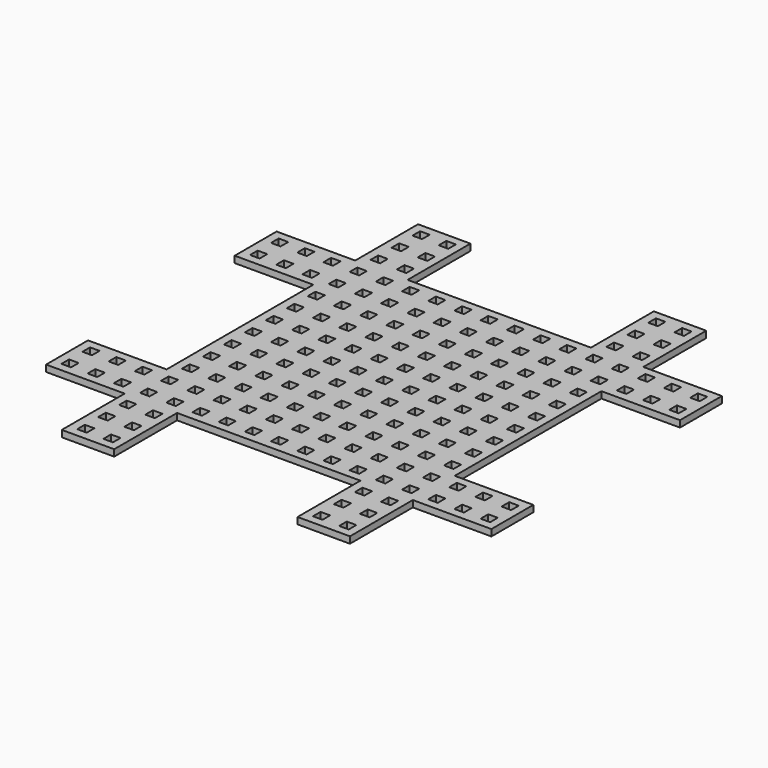
from build123d import *

# Parameters (mm, degrees)
F0_W     = 4.6228
F0_H     = 4.6228
F1_DEPTH = 3.175


with BuildPart() as f1:
    # F0 (on Top) → F1 (new body)
    with BuildSketch(Plane.XY):
        Polygon((69.85, 44.45), (107.95, 44.45), (107.95, 69.85), (69.85, 69.85), (69.85, 107.95), (44.45, 107.95), (44.45, 69.85), (-44.45, 69.85), (-44.45, 107.95), (-69.85, 107.95), (-69.85, 69.85), (-107.95, 69.85), (-107.95, 44.45), (-69.85, 44.45), (-69.85, -44.45), (-107.95, -44.45), (-107.95, -69.85), (-69.85, -69.85), (-69.85, -107.95), (-44.45, -107.95), (-44.45, -69.85), (44.45, -69.85), (44.45, -107.95), (69.85, -107.95), (69.85, -69.85), (107.95, -69.85), (107.95, -44.45), (69.85, -44.45), align=None)
        with Locations((-63.354329, -101.538615)):
            Rectangle(F0_W, F0_H, mode=Mode.SUBTRACT)
        with Locations((-63.354329, -88.838615)):
            Rectangle(F0_W, F0_H, mode=Mode.SUBTRACT)
        with Locations((-101.454329, -63.438615)):
            Rectangle(F0_W, F0_H, mode=Mode.SUBTRACT)
        with Locations((-88.754329, -63.438615)):
            Rectangle(F0_W, F0_H, mode=Mode.SUBTRACT)
        with Locations((-63.354329, -76.138615)):
            Rectangle(F0_W, F0_H, mode=Mode.SUBTRACT)
        with Locations((-76.054329, -63.438615)):
            Rectangle(F0_W, F0_H, mode=Mode.SUBTRACT)
        with Locations((-63.354329, -63.438615)):
            Rectangle(F0_W, F0_H, mode=Mode.SUBTRACT)
        with Locations((-50.654329, -101.538615)):
            Rectangle(F0_W, F0_H, mode=Mode.SUBTRACT)
        with Locations((-50.654329, -88.838615)):
            Rectangle(F0_W, F0_H, mode=Mode.SUBTRACT)
        with Locations((-50.654329, -76.138615)):
            Rectangle(F0_W, F0_H, mode=Mode.SUBTRACT)
        with Locations((-50.654329, -63.438615)):
            Rectangle(F0_W, F0_H, mode=Mode.SUBTRACT)
        with Locations((-37.954329, -63.438615)):
            Rectangle(F0_W, F0_H, mode=Mode.SUBTRACT)
        with Locations((-25.254329, -63.438615)):
            Rectangle(F0_W, F0_H, mode=Mode.SUBTRACT)
        with Locations((-12.554329, -63.438615)):
            Rectangle(F0_W, F0_H, mode=Mode.SUBTRACT)
        with Locations((-101.454329, -50.738615)):
            Rectangle(F0_W, F0_H, mode=Mode.SUBTRACT)
        with Locations((-88.754329, -50.738615)):
            Rectangle(F0_W, F0_H, mode=Mode.SUBTRACT)
        with Locations((-76.054329, -50.738615)):
            Rectangle(F0_W, F0_H, mode=Mode.SUBTRACT)
        with Locations((-63.354329, -50.738615)):
            Rectangle(F0_W, F0_H, mode=Mode.SUBTRACT)
        with Locations((-63.354329, -38.038615)):
            Rectangle(F0_W, F0_H, mode=Mode.SUBTRACT)
        with Locations((-63.354329, -25.338615)):
            Rectangle(F0_W, F0_H, mode=Mode.SUBTRACT)
        with Locations((-63.354329, -12.638615)):
            Rectangle(F0_W, F0_H, mode=Mode.SUBTRACT)
        with Locations((-50.654329, -50.738615)):
            Rectangle(F0_W, F0_H, mode=Mode.SUBTRACT)
        with Locations((-37.954329, -50.738615)):
            Rectangle(F0_W, F0_H, mode=Mode.SUBTRACT)
        with Locations((-50.654329, -38.038615)):
            Rectangle(F0_W, F0_H, mode=Mode.SUBTRACT)
        with Locations((-37.954329, -38.038615)):
            Rectangle(F0_W, F0_H, mode=Mode.SUBTRACT)
        with Locations((-25.254329, -50.738615)):
            Rectangle(F0_W, F0_H, mode=Mode.SUBTRACT)
        with Locations((-12.554329, -50.738615)):
            Rectangle(F0_W, F0_H, mode=Mode.SUBTRACT)
        with Locations((-25.254329, -38.038615)):
            Rectangle(F0_W, F0_H, mode=Mode.SUBTRACT)
        with Locations((-12.554329, -38.038615)):
            Rectangle(F0_W, F0_H, mode=Mode.SUBTRACT)
        with Locations((-50.654329, -25.338615)):
            Rectangle(F0_W, F0_H, mode=Mode.SUBTRACT)
        with Locations((-37.954329, -25.338615)):
            Rectangle(F0_W, F0_H, mode=Mode.SUBTRACT)
        with Locations((-50.654329, -12.638615)):
            Rectangle(F0_W, F0_H, mode=Mode.SUBTRACT)
        with Locations((-37.954329, -12.638615)):
            Rectangle(F0_W, F0_H, mode=Mode.SUBTRACT)
        with Locations((-25.254329, -25.338615)):
            Rectangle(F0_W, F0_H, mode=Mode.SUBTRACT)
        with Locations((-12.554329, -25.338615)):
            Rectangle(F0_W, F0_H, mode=Mode.SUBTRACT)
        with Locations((-25.254329, -12.638615)):
            Rectangle(F0_W, F0_H, mode=Mode.SUBTRACT)
        with Locations((-12.554329, -12.638615)):
            Rectangle(F0_W, F0_H, mode=Mode.SUBTRACT)
        with Locations((50.945671, -101.538615)):
            Rectangle(F0_W, F0_H, mode=Mode.SUBTRACT)
        with Locations((50.945671, -88.838615)):
            Rectangle(F0_W, F0_H, mode=Mode.SUBTRACT)
        with Locations((0.145671, -63.438615)):
            Rectangle(F0_W, F0_H, mode=Mode.SUBTRACT)
        with Locations((12.845671, -63.438615)):
            Rectangle(F0_W, F0_H, mode=Mode.SUBTRACT)
        with Locations((25.545671, -63.438615)):
            Rectangle(F0_W, F0_H, mode=Mode.SUBTRACT)
        with Locations((50.945671, -76.138615)):
            Rectangle(F0_W, F0_H, mode=Mode.SUBTRACT)
        with Locations((38.245671, -63.438615)):
            Rectangle(F0_W, F0_H, mode=Mode.SUBTRACT)
        with Locations((50.945671, -63.438615)):
            Rectangle(F0_W, F0_H, mode=Mode.SUBTRACT)
        with Locations((63.645671, -101.538615)):
            Rectangle(F0_W, F0_H, mode=Mode.SUBTRACT)
        with Locations((63.645671, -88.838615)):
            Rectangle(F0_W, F0_H, mode=Mode.SUBTRACT)
        with Locations((63.645671, -76.138615)):
            Rectangle(F0_W, F0_H, mode=Mode.SUBTRACT)
        with Locations((63.645671, -63.438615)):
            Rectangle(F0_W, F0_H, mode=Mode.SUBTRACT)
        with Locations((76.345671, -63.438615)):
            Rectangle(F0_W, F0_H, mode=Mode.SUBTRACT)
        with Locations((89.045671, -63.438615)):
            Rectangle(F0_W, F0_H, mode=Mode.SUBTRACT)
        with Locations((101.745671, -63.438615)):
            Rectangle(F0_W, F0_H, mode=Mode.SUBTRACT)
        with Locations((0.145671, -50.738615)):
            Rectangle(F0_W, F0_H, mode=Mode.SUBTRACT)
        with Locations((12.845671, -50.738615)):
            Rectangle(F0_W, F0_H, mode=Mode.SUBTRACT)
        with Locations((25.545671, -50.738615)):
            Rectangle(F0_W, F0_H, mode=Mode.SUBTRACT)
        with Locations((0.145671, -38.038615)):
            Rectangle(F0_W, F0_H, mode=Mode.SUBTRACT)
        with Locations((12.845671, -38.038615)):
            Rectangle(F0_W, F0_H, mode=Mode.SUBTRACT)
        with Locations((25.545671, -38.038615)):
            Rectangle(F0_W, F0_H, mode=Mode.SUBTRACT)
        with Locations((38.245671, -50.738615)):
            Rectangle(F0_W, F0_H, mode=Mode.SUBTRACT)
        with Locations((50.945671, -50.738615)):
            Rectangle(F0_W, F0_H, mode=Mode.SUBTRACT)
        with Locations((38.245671, -38.038615)):
            Rectangle(F0_W, F0_H, mode=Mode.SUBTRACT)
        with Locations((50.945671, -38.038615)):
            Rectangle(F0_W, F0_H, mode=Mode.SUBTRACT)
        with Locations((0.145671, -25.338615)):
            Rectangle(F0_W, F0_H, mode=Mode.SUBTRACT)
        with Locations((12.845671, -25.338615)):
            Rectangle(F0_W, F0_H, mode=Mode.SUBTRACT)
        with Locations((25.545671, -25.338615)):
            Rectangle(F0_W, F0_H, mode=Mode.SUBTRACT)
        with Locations((0.145671, -12.638615)):
            Rectangle(F0_W, F0_H, mode=Mode.SUBTRACT)
        with Locations((12.845671, -12.638615)):
            Rectangle(F0_W, F0_H, mode=Mode.SUBTRACT)
        with Locations((25.545671, -12.638615)):
            Rectangle(F0_W, F0_H, mode=Mode.SUBTRACT)
        with Locations((38.245671, -25.338615)):
            Rectangle(F0_W, F0_H, mode=Mode.SUBTRACT)
        with Locations((50.945671, -25.338615)):
            Rectangle(F0_W, F0_H, mode=Mode.SUBTRACT)
        with Locations((38.245671, -12.638615)):
            Rectangle(F0_W, F0_H, mode=Mode.SUBTRACT)
        with Locations((50.945671, -12.638615)):
            Rectangle(F0_W, F0_H, mode=Mode.SUBTRACT)
        with Locations((63.645671, -50.738615)):
            Rectangle(F0_W, F0_H, mode=Mode.SUBTRACT)
        with Locations((76.345671, -50.738615)):
            Rectangle(F0_W, F0_H, mode=Mode.SUBTRACT)
        with Locations((63.645671, -38.038615)):
            Rectangle(F0_W, F0_H, mode=Mode.SUBTRACT)
        with Locations((89.045671, -50.738615)):
            Rectangle(F0_W, F0_H, mode=Mode.SUBTRACT)
        with Locations((101.745671, -50.738615)):
            Rectangle(F0_W, F0_H, mode=Mode.SUBTRACT)
        with Locations((63.645671, -25.338615)):
            Rectangle(F0_W, F0_H, mode=Mode.SUBTRACT)
        with Locations((63.645671, -12.638615)):
            Rectangle(F0_W, F0_H, mode=Mode.SUBTRACT)
        with Locations((-63.354329, 0.061385)):
            Rectangle(F0_W, F0_H, mode=Mode.SUBTRACT)
        with Locations((-63.354329, 12.761385)):
            Rectangle(F0_W, F0_H, mode=Mode.SUBTRACT)
        with Locations((-63.354329, 25.461385)):
            Rectangle(F0_W, F0_H, mode=Mode.SUBTRACT)
        with Locations((-101.454329, 50.861385)):
            Rectangle(F0_W, F0_H, mode=Mode.SUBTRACT)
        with Locations((-88.754329, 50.861385)):
            Rectangle(F0_W, F0_H, mode=Mode.SUBTRACT)
        with Locations((-63.354329, 38.161385)):
            Rectangle(F0_W, F0_H, mode=Mode.SUBTRACT)
        with Locations((-76.054329, 50.861385)):
            Rectangle(F0_W, F0_H, mode=Mode.SUBTRACT)
        with Locations((-63.354329, 50.861385)):
            Rectangle(F0_W, F0_H, mode=Mode.SUBTRACT)
        with Locations((-50.654329, 0.061385)):
            Rectangle(F0_W, F0_H, mode=Mode.SUBTRACT)
        with Locations((-50.654329, 12.761385)):
            Rectangle(F0_W, F0_H, mode=Mode.SUBTRACT)
        with Locations((-37.954329, 0.061385)):
            Rectangle(F0_W, F0_H, mode=Mode.SUBTRACT)
        with Locations((-37.954329, 12.761385)):
            Rectangle(F0_W, F0_H, mode=Mode.SUBTRACT)
        with Locations((-50.654329, 25.461385)):
            Rectangle(F0_W, F0_H, mode=Mode.SUBTRACT)
        with Locations((-37.954329, 25.461385)):
            Rectangle(F0_W, F0_H, mode=Mode.SUBTRACT)
        with Locations((-25.254329, 0.061385)):
            Rectangle(F0_W, F0_H, mode=Mode.SUBTRACT)
        with Locations((-25.254329, 12.761385)):
            Rectangle(F0_W, F0_H, mode=Mode.SUBTRACT)
        with Locations((-12.554329, 0.061385)):
            Rectangle(F0_W, F0_H, mode=Mode.SUBTRACT)
        with Locations((-12.554329, 12.761385)):
            Rectangle(F0_W, F0_H, mode=Mode.SUBTRACT)
        with Locations((-25.254329, 25.461385)):
            Rectangle(F0_W, F0_H, mode=Mode.SUBTRACT)
        with Locations((-12.554329, 25.461385)):
            Rectangle(F0_W, F0_H, mode=Mode.SUBTRACT)
        with Locations((-50.654329, 38.161385)):
            Rectangle(F0_W, F0_H, mode=Mode.SUBTRACT)
        with Locations((-37.954329, 38.161385)):
            Rectangle(F0_W, F0_H, mode=Mode.SUBTRACT)
        with Locations((-50.654329, 50.861385)):
            Rectangle(F0_W, F0_H, mode=Mode.SUBTRACT)
        with Locations((-37.954329, 50.861385)):
            Rectangle(F0_W, F0_H, mode=Mode.SUBTRACT)
        with Locations((-25.254329, 38.161385)):
            Rectangle(F0_W, F0_H, mode=Mode.SUBTRACT)
        with Locations((-12.554329, 38.161385)):
            Rectangle(F0_W, F0_H, mode=Mode.SUBTRACT)
        with Locations((-25.254329, 50.861385)):
            Rectangle(F0_W, F0_H, mode=Mode.SUBTRACT)
        with Locations((-12.554329, 50.861385)):
            Rectangle(F0_W, F0_H, mode=Mode.SUBTRACT)
        with Locations((-101.454329, 63.561385)):
            Rectangle(F0_W, F0_H, mode=Mode.SUBTRACT)
        with Locations((-88.754329, 63.561385)):
            Rectangle(F0_W, F0_H, mode=Mode.SUBTRACT)
        with Locations((-76.054329, 63.561385)):
            Rectangle(F0_W, F0_H, mode=Mode.SUBTRACT)
        with Locations((-63.354329, 63.561385)):
            Rectangle(F0_W, F0_H, mode=Mode.SUBTRACT)
        with Locations((-63.354329, 76.261385)):
            Rectangle(F0_W, F0_H, mode=Mode.SUBTRACT)
        with Locations((-63.354329, 88.961385)):
            Rectangle(F0_W, F0_H, mode=Mode.SUBTRACT)
        with Locations((-63.354329, 101.661385)):
            Rectangle(F0_W, F0_H, mode=Mode.SUBTRACT)
        with Locations((-50.654329, 63.561385)):
            Rectangle(F0_W, F0_H, mode=Mode.SUBTRACT)
        with Locations((-37.954329, 63.561385)):
            Rectangle(F0_W, F0_H, mode=Mode.SUBTRACT)
        with Locations((-50.654329, 76.261385)):
            Rectangle(F0_W, F0_H, mode=Mode.SUBTRACT)
        with Locations((-25.254329, 63.561385)):
            Rectangle(F0_W, F0_H, mode=Mode.SUBTRACT)
        with Locations((-12.554329, 63.561385)):
            Rectangle(F0_W, F0_H, mode=Mode.SUBTRACT)
        with Locations((-50.654329, 88.961385)):
            Rectangle(F0_W, F0_H, mode=Mode.SUBTRACT)
        with Locations((-50.654329, 101.661385)):
            Rectangle(F0_W, F0_H, mode=Mode.SUBTRACT)
        with Locations((0.145671, 0.061385)):
            Rectangle(F0_W, F0_H, mode=Mode.SUBTRACT)
        with Locations((12.845671, 0.061385)):
            Rectangle(F0_W, F0_H, mode=Mode.SUBTRACT)
        with Locations((0.145671, 12.761385)):
            Rectangle(F0_W, F0_H, mode=Mode.SUBTRACT)
        with Locations((12.845671, 12.761385)):
            Rectangle(F0_W, F0_H, mode=Mode.SUBTRACT)
        with Locations((25.545671, 0.061385)):
            Rectangle(F0_W, F0_H, mode=Mode.SUBTRACT)
        with Locations((25.545671, 12.761385)):
            Rectangle(F0_W, F0_H, mode=Mode.SUBTRACT)
        with Locations((0.145671, 25.461385)):
            Rectangle(F0_W, F0_H, mode=Mode.SUBTRACT)
        with Locations((12.845671, 25.461385)):
            Rectangle(F0_W, F0_H, mode=Mode.SUBTRACT)
        with Locations((25.545671, 25.461385)):
            Rectangle(F0_W, F0_H, mode=Mode.SUBTRACT)
        with Locations((38.245671, 0.061385)):
            Rectangle(F0_W, F0_H, mode=Mode.SUBTRACT)
        with Locations((38.245671, 12.761385)):
            Rectangle(F0_W, F0_H, mode=Mode.SUBTRACT)
        with Locations((50.945671, 0.061385)):
            Rectangle(F0_W, F0_H, mode=Mode.SUBTRACT)
        with Locations((50.945671, 12.761385)):
            Rectangle(F0_W, F0_H, mode=Mode.SUBTRACT)
        with Locations((38.245671, 25.461385)):
            Rectangle(F0_W, F0_H, mode=Mode.SUBTRACT)
        with Locations((50.945671, 25.461385)):
            Rectangle(F0_W, F0_H, mode=Mode.SUBTRACT)
        with Locations((0.145671, 38.161385)):
            Rectangle(F0_W, F0_H, mode=Mode.SUBTRACT)
        with Locations((12.845671, 38.161385)):
            Rectangle(F0_W, F0_H, mode=Mode.SUBTRACT)
        with Locations((25.545671, 38.161385)):
            Rectangle(F0_W, F0_H, mode=Mode.SUBTRACT)
        with Locations((0.145671, 50.861385)):
            Rectangle(F0_W, F0_H, mode=Mode.SUBTRACT)
        with Locations((12.845671, 50.861385)):
            Rectangle(F0_W, F0_H, mode=Mode.SUBTRACT)
        with Locations((25.545671, 50.861385)):
            Rectangle(F0_W, F0_H, mode=Mode.SUBTRACT)
        with Locations((38.245671, 38.161385)):
            Rectangle(F0_W, F0_H, mode=Mode.SUBTRACT)
        with Locations((50.945671, 38.161385)):
            Rectangle(F0_W, F0_H, mode=Mode.SUBTRACT)
        with Locations((38.245671, 50.861385)):
            Rectangle(F0_W, F0_H, mode=Mode.SUBTRACT)
        with Locations((50.945671, 50.861385)):
            Rectangle(F0_W, F0_H, mode=Mode.SUBTRACT)
        with Locations((63.645671, 0.061385)):
            Rectangle(F0_W, F0_H, mode=Mode.SUBTRACT)
        with Locations((63.645671, 12.761385)):
            Rectangle(F0_W, F0_H, mode=Mode.SUBTRACT)
        with Locations((63.645671, 25.461385)):
            Rectangle(F0_W, F0_H, mode=Mode.SUBTRACT)
        with Locations((63.645671, 38.161385)):
            Rectangle(F0_W, F0_H, mode=Mode.SUBTRACT)
        with Locations((63.645671, 50.861385)):
            Rectangle(F0_W, F0_H, mode=Mode.SUBTRACT)
        with Locations((76.345671, 50.861385)):
            Rectangle(F0_W, F0_H, mode=Mode.SUBTRACT)
        with Locations((89.045671, 50.861385)):
            Rectangle(F0_W, F0_H, mode=Mode.SUBTRACT)
        with Locations((101.745671, 50.861385)):
            Rectangle(F0_W, F0_H, mode=Mode.SUBTRACT)
        with Locations((0.145671, 63.561385)):
            Rectangle(F0_W, F0_H, mode=Mode.SUBTRACT)
        with Locations((12.845671, 63.561385)):
            Rectangle(F0_W, F0_H, mode=Mode.SUBTRACT)
        with Locations((25.545671, 63.561385)):
            Rectangle(F0_W, F0_H, mode=Mode.SUBTRACT)
        with Locations((38.245671, 63.561385)):
            Rectangle(F0_W, F0_H, mode=Mode.SUBTRACT)
        with Locations((50.945671, 63.561385)):
            Rectangle(F0_W, F0_H, mode=Mode.SUBTRACT)
        with Locations((50.945671, 76.261385)):
            Rectangle(F0_W, F0_H, mode=Mode.SUBTRACT)
        with Locations((50.945671, 88.961385)):
            Rectangle(F0_W, F0_H, mode=Mode.SUBTRACT)
        with Locations((50.945671, 101.661385)):
            Rectangle(F0_W, F0_H, mode=Mode.SUBTRACT)
        with Locations((63.645671, 63.561385)):
            Rectangle(F0_W, F0_H, mode=Mode.SUBTRACT)
        with Locations((76.345671, 63.561385)):
            Rectangle(F0_W, F0_H, mode=Mode.SUBTRACT)
        with Locations((63.645671, 76.261385)):
            Rectangle(F0_W, F0_H, mode=Mode.SUBTRACT)
        with Locations((89.045671, 63.561385)):
            Rectangle(F0_W, F0_H, mode=Mode.SUBTRACT)
        with Locations((101.745671, 63.561385)):
            Rectangle(F0_W, F0_H, mode=Mode.SUBTRACT)
        with Locations((63.645671, 88.961385)):
            Rectangle(F0_W, F0_H, mode=Mode.SUBTRACT)
        with Locations((63.645671, 101.661385)):
            Rectangle(F0_W, F0_H, mode=Mode.SUBTRACT)
    extrude(amount=F1_DEPTH)


solid = f1.part
